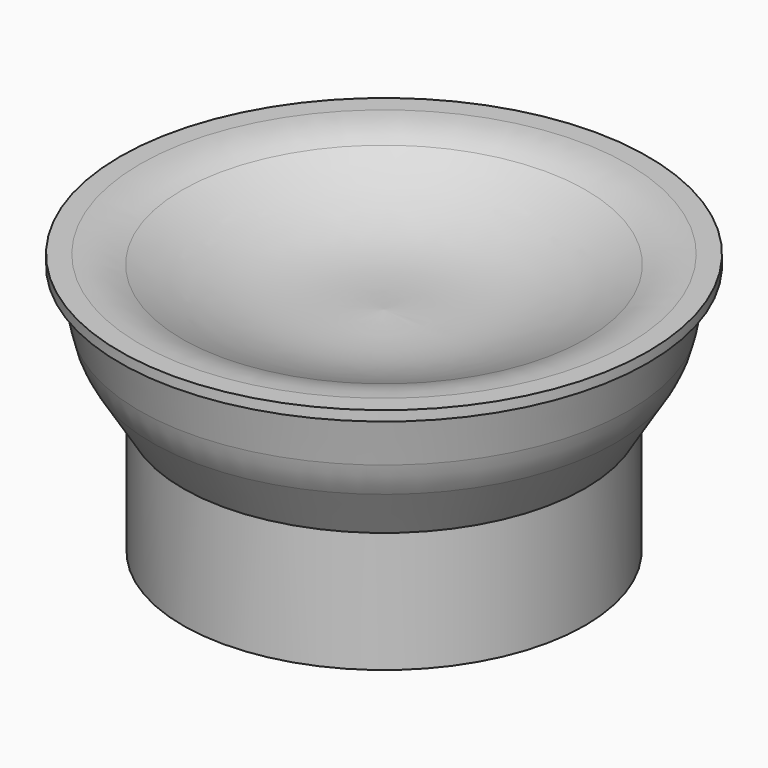
from build123d import *

# Parameters (mm, degrees)
F0_R     = 11
F1_DEPTH = 4
F2_R     = 20
F2_R_2   = 11
F3_DEPTH = 12


with BuildPart() as f1:
    # F0 (on Top) → F1 (new body)
    with BuildSketch(Plane.XY):
        Circle(F0_R)
    extrude(amount=F1_DEPTH)

    # F2 (on face) → F3 (join)
    with BuildSketch(Plane.XY.offset(4)):
        Circle(F2_R)
        Circle(F2_R_2, mode=Mode.SUBTRACT)
        Circle(F2_R_2)
    extrude(amount=F3_DEPTH)

    # F4 (on Front) → F5 (revolve)
    with BuildSketch(Plane.XZ):
        with BuildLine():
            Line((26.2435501542, 30), (24.2435501542, 30))
            ThreePointArc((24.2435501542, 30), (22.1053432538, 29.7687292547), (20.066037294, 29.0856142502))
            add(Edge.make_bspline(
                [(0, 25.1485239714), (3.3020219353, 24.9547299716), (9.7317137995, 24.5773746031), (16.670969278, 27.5245816212), (20.066037294, 29.0856142502)],
                knots=[0, 0, 0, 0, 0.4694356931, 0.9140844354, 0.9140844354, 0.9140844354, 0.9140844354], degree=3))
            Line((0, 25.1485239714), (0, 16))
            Line((0, 16), (20, 16))
            Line((20, 16), (23.0461187635, 20.9651674984))
            ThreePointArc((23.0461187635, 20.9651674984), (23.82328384, 22.5212025281), (24.3190746637, 24.1883623971))
            Line((24.3190746637, 24.1883623971), (25.3043714911, 29))
            Line((25.3043714911, 29), (26.2435501542, 29))
            Line((26.2435501542, 29), (26.2435501542, 30))
        make_face()
    revolve(axis=Axis((0, 0, 21.7276830226), (0, 0, 1)))


solid = f1.part
